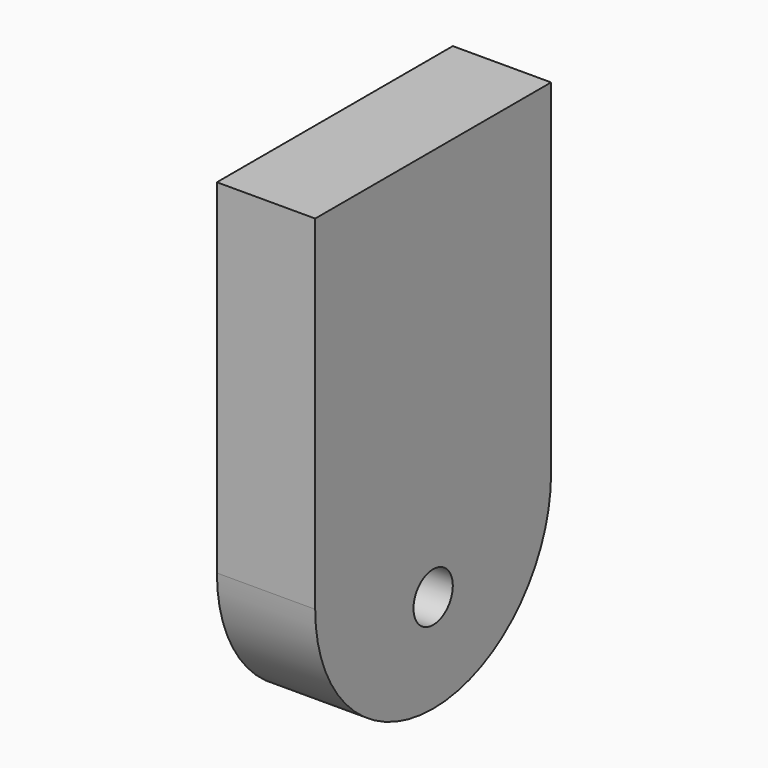
from build123d import *

# Parameters (mm, degrees)
F0_R     = 1.5875
F1_DEPTH = 6.35


with BuildPart() as f1:
    # F0 (on Right) → F1 (new body)
    with BuildSketch(Plane.YZ):
        with BuildLine():
            Line((0, 0), (0, -22.225))
            ThreePointArc((0, -22.225), (9.525, -31.75), (19.05, -22.225))
            Line((19.05, -22.225), (19.05, 0))
            Line((19.05, 0), (0, 0))
        make_face()
        with Locations((9.525, -25.4)):
            Circle(F0_R, mode=Mode.SUBTRACT)
    extrude(amount=F1_DEPTH)


solid = f1.part
